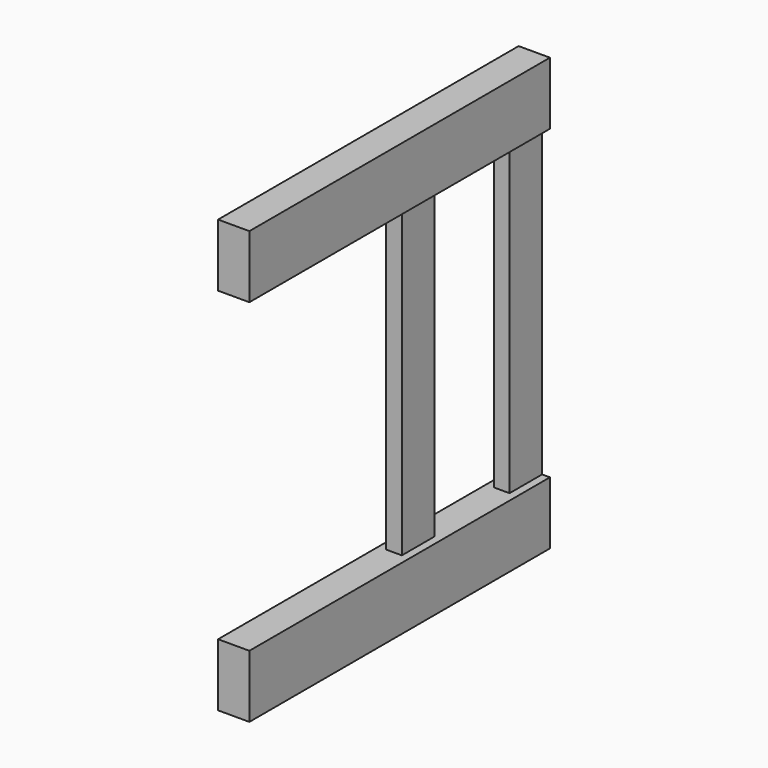
from build123d import *

# Parameters (mm, degrees)
F0_W     = 762
F0_H     = 127
F1_DEPTH = 31.75
F2_W     = 82.55
F2_H     = 876.3
F3_DEPTH = 15.875


with BuildPart() as f1:
    # F0 (on Right) → F1 (new body, symmetric)
    with BuildSketch(Plane.YZ):
        with Locations((381, 63.5)):
            Rectangle(F0_W, F0_H)
        with Locations((381, 812.8)):
            Rectangle(F0_W, F0_H)
    extrude(amount=F1_DEPTH, both=True)

    # F2 (on Right) → F3 (join, symmetric)
    with BuildSketch(Plane.YZ):
        with Locations((720.725, 438.15)):
            Rectangle(F2_W, F2_H)
        with Locations((447.675, 438.15)):
            Rectangle(F2_W, F2_H)
    extrude(amount=F3_DEPTH, both=True)


solid = f1.part
